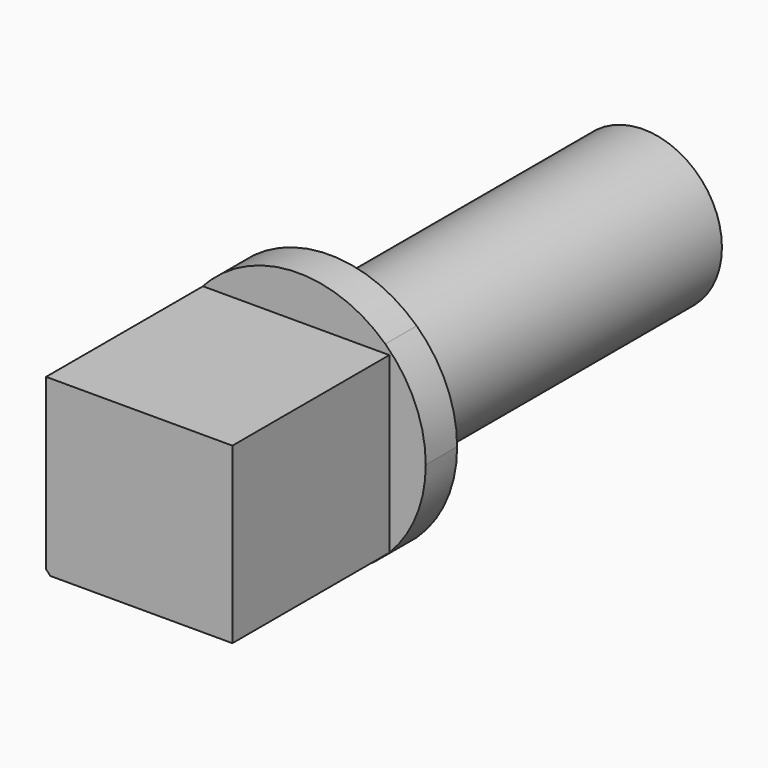
from build123d import *

# Parameters (mm, degrees)
F0_R     = 4
F1_DEPTH = 22
F0_W     = 8.8741196746
F0_H     = 9.5
F2_DEPTH = 2
F3_DEPTH = 10
F5_DEPTH = 10


with BuildPart() as f1:
    # F0 (on Front) → F1 (new body)
    with BuildSketch(Plane.XZ):
        Circle(F0_R)
    extrude(amount=-F1_DEPTH)

    # F0 (on Front) → F2 (join)
    with BuildSketch(Plane.XZ):
        with BuildLine():
            ThreePointArc((4.4370598373, -4.75), (5.9620000395, -2.5893156487), (6.5, 0))
            ThreePointArc((6.5, 0), (5.9620000395, 2.5893156487), (4.4370598373, 4.75))
            Line((4.4370598373, 4.75), (4.4370598373, -4.75))
        make_face()
        with BuildLine():
            Line((-4.4370598373, 4.75), (4.4370598373, 4.75))
            ThreePointArc((4.4370598373, 4.75), (0, 6.5), (-4.4370598373, 4.75))
        make_face()
        Rectangle(F0_W, F0_H)
        Circle(F0_R, mode=Mode.SUBTRACT)
        with BuildLine():
            ThreePointArc((-4.4370598373, -4.75), (0, -6.5), (4.4370598373, -4.75))
            Line((4.4370598373, -4.75), (-4.4370598373, -4.75))
        make_face()
        with BuildLine():
            Line((-4.4370598373, -4.75), (-4.4370598373, 4.75))
            ThreePointArc((-4.4370598373, 4.75), (-6.5, 0), (-4.4370598373, -4.75))
        make_face()
    extrude(amount=-F2_DEPTH)

    # F3 (add): a face of the model
    f3_faces = [f1.faces().sort_by_distance(p)[0] for p in [
        (0, 0, 0),
    ]]
    extrude(f3_faces, amount=F3_DEPTH)

    # F4 (on face) → F5 (cut)
    with BuildSketch(Plane.XZ.offset(10)):
        with BuildLine():
            ThreePointArc((6.5, 0), (2.3093271481, 6.0759368103), (-4.8590794225, 4.3173310234))
            Line((-4.8590794225, 4.3173310234), (4.6409205775, 4.3173310234))
            Line((4.6409205775, 4.3173310234), (4.6409205775, -4.551028037))
            ThreePointArc((4.6409205775, -4.551028037), (6.0173076934, -2.4580496584), (6.5, 0))
        make_face()
        with BuildLine():
            ThreePointArc((-4.6409205775, -4.551028037), (0, -6.5), (4.6409205775, -4.551028037))
            Line((4.6409205775, -4.551028037), (-4.6409205775, -4.551028037))
        make_face()
        with BuildLine():
            Line((-4.8590794225, -4.3173310234), (-4.8590794225, 4.3173310234))
            ThreePointArc((-4.8590794225, 4.3173310234), (-6.5, 0), (-4.8590794225, -4.3173310234))
        make_face()
    extrude(amount=-F5_DEPTH, mode=Mode.SUBTRACT)


solid = f1.part
